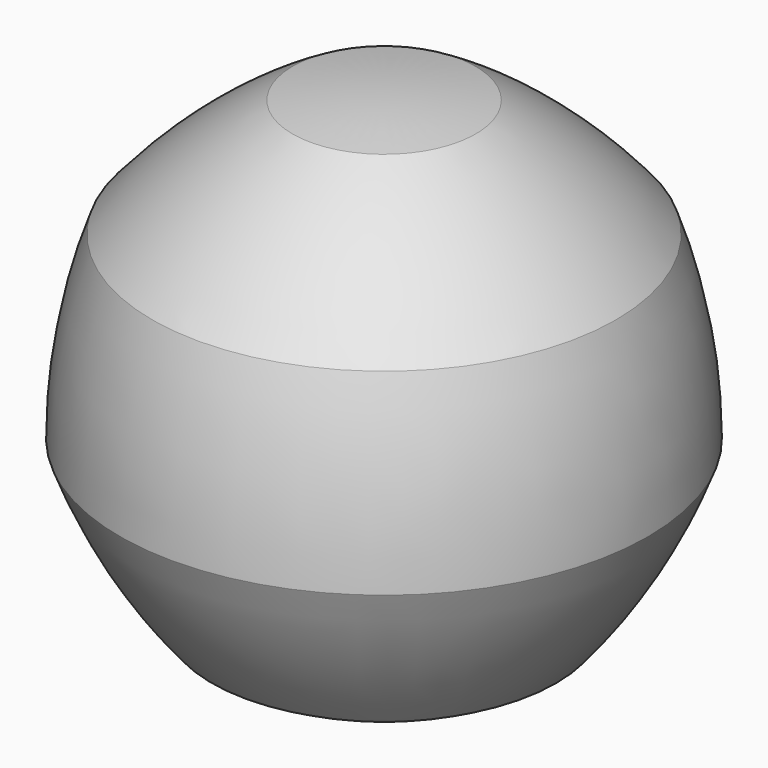
from build123d import *


with BuildPart() as f1:
    # F0 (on Front) → F1 (revolve)
    with BuildSketch(Plane.XZ):
        with BuildLine():
            ThreePointArc((-6.4012311957, 17.6131763881), (-11.6734442869, 13.9252512564), (-16.2251591361, 9.3778437985))
            ThreePointArc((-16.2251591361, 9.3778437985), (-17.8933560974, 3.163815994), (-18.4571547942, -3.2454861276))
            ThreePointArc((-18.4571547942, -3.2454861276), (-15.7407677274, -9.0780039338), (-12.0528425956, -14.350217025))
            ThreePointArc((-12.0528425956, -14.350217025), (-6.2228991987, -17.0721249303), (-0.0088713942, -18.7403218915))
            Line((-0.0088713942, -18.7403218915), (0, 18.1709097636))
            ThreePointArc((0, 18.1709097636), (-3.2127749026, 18.0315981469), (-6.4012311957, 17.6131763881))
        make_face()
    revolve(axis=Axis((-0.0044356971, 0, -0.284706064), (0.000240344, 0, 0.9999999711)))


solid = f1.part
